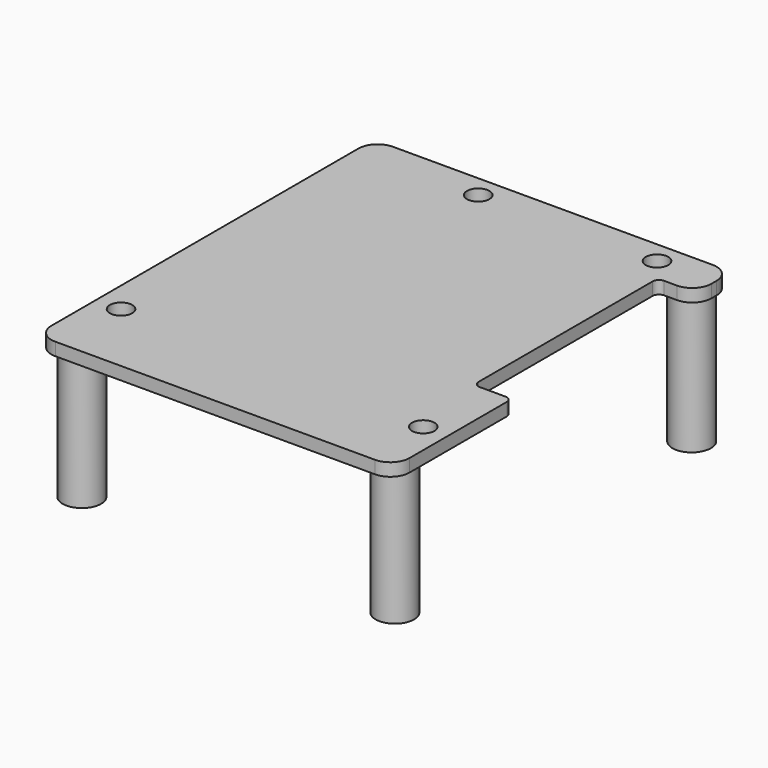
from build123d import *

# Parameters (mm, degrees)
PAD_DEPTH     = 2
SKETCH001_R   = 1.75
POCKET_DEPTH  = 5
SKETCH002_R   = 3
SKETCH002_R_2 = 1.6
PAD001_DEPTH  = 21


with BuildPart() as part:
    # Sketch → Pad (new body)
    with BuildSketch(Plane.XY):
        with BuildLine():
            Line((-25.000066, 40.999736), (24.999953, 40.999736))
            ThreePointArc((28.000009, 38.000002), (27.121199, 40.121154), (24.999953, 40.999736))
            Line((28.000009, 38.000002), (28.000116, 37))
            ThreePointArc((25.000438, 34), (27.121645, 34.878699), (28.000116, 37))
            Line((25.000438, 34), (23, 34))
            ThreePointArc((23, 34), (22.292893, 33.707107), (22, 33))
            Line((22, 33), (22, -1.000001))
            ThreePointArc((22, -1.000001), (22.292893, -1.707108), (23, -2.000001))
            Line((23, -2.000001), (26.999998, -2.000001))
            ThreePointArc((27.999996, -2.999999), (27.707103, -2.292894), (26.999998, -2.000001))
            Line((27.999996, -2.999999), (27.999996, -21.999992))
            ThreePointArc((25.000004, -24.999984), (27.121319, -24.121306), (27.999996, -21.999992))
            Line((25.000004, -24.999984), (-24.999967, -24.999984))
            ThreePointArc((-27.999934, -22.000016), (-27.121264, -24.121314), (-24.999967, -24.999984))
            Line((-27.999934, -22.000016), (-27.999934, 37.999868))
            ThreePointArc((-25.000066, 40.999736), (-27.121293, 40.121095), (-27.999934, 37.999868))
        make_face()
    extrude(amount=-PAD_DEPTH)

    # Sketch001 (on Face16 of Pad) → Pocket (cut)
    with BuildSketch(Plane.XY):
        with Locations((-8.896551, 37.535175)):
            Circle(SKETCH001_R)
        with Locations((19.048174, 37.554218)):
            Circle(SKETCH001_R)
        with Locations((-24.112202, -13.254919)):
            Circle(SKETCH001_R)
        with Locations((24.153093, -14.517437)):
            Circle(SKETCH001_R)
    extrude(amount=-POCKET_DEPTH, mode=Mode.SUBTRACT)

    # Sketch002 (on Face5 of Pocket) → Pad001 (join)
    with BuildSketch(Plane(origin=(0, 0, -2), x_dir=(1, 0, 0), z_dir=(0, 0, -1))):
        with Locations((-24.440964, 20.497406)):
            Circle(SKETCH002_R)
        with Locations((-24.440964, 20.497406)):
            Circle(SKETCH002_R_2, mode=Mode.SUBTRACT)
        with Locations((24.491911, 20.496445)):
            Circle(SKETCH002_R)
        with Locations((24.491911, 20.496445)):
            Circle(SKETCH002_R_2, mode=Mode.SUBTRACT)
        with Locations((-24.511511, -37.516029)):
            Circle(SKETCH002_R)
        with Locations((-24.511511, -37.516029)):
            Circle(SKETCH002_R_2, mode=Mode.SUBTRACT)
        with Locations((24.504074, -37.505135)):
            Circle(SKETCH002_R)
        with Locations((24.504074, -37.505135)):
            Circle(SKETCH002_R_2, mode=Mode.SUBTRACT)
    extrude(amount=PAD001_DEPTH)


with BuildPart() as part_1:
    # Body placement: moved
    add(part.part.moved(Location((0, 0, 24.5))))


with BuildPart() as part_2:
    # Clone placement: moved
    add(part_1.part.moved(Location((0, 0, 55.5))))


solid = part_2.part
